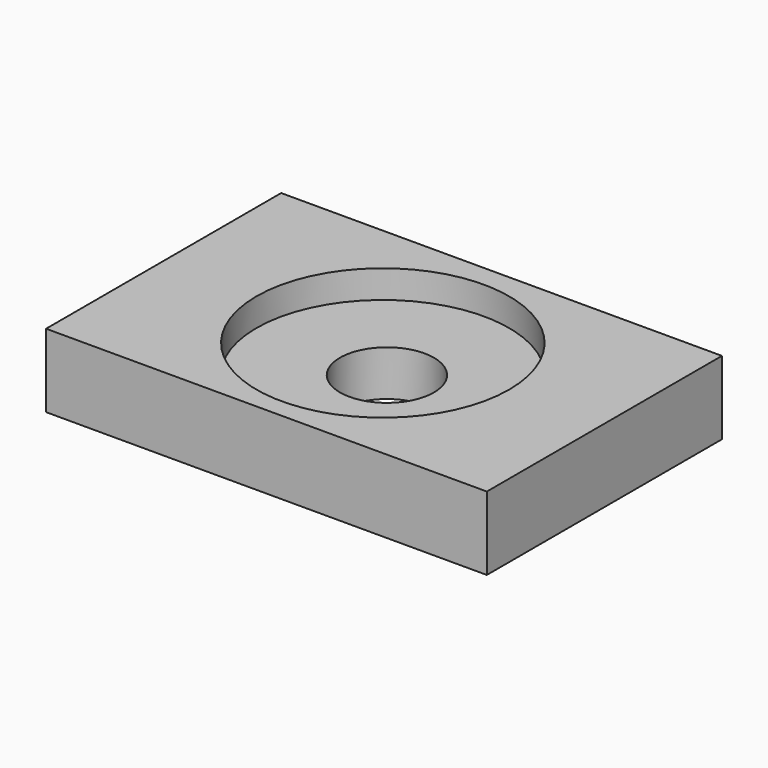
from build123d import *

# Parameters (mm, degrees)
CYLINDER001_R     = 1.6
CYLINDER001_DEPTH = 5
CYLINDER_R        = 4.3
CYLINDER_DEPTH    = 1.55
BOX_W             = 15
BOX_H             = 10
BOX_DEPTH         = 2.5


with BuildPart() as cylinder001:
    # Cylinder001 → Cylinder001 (new body)
    with BuildSketch(Plane(origin=(7.6, 5, -1), x_dir=(1, 0, 0), z_dir=(0, 0, 1))):
        Circle(CYLINDER001_R)
    extrude(amount=CYLINDER001_DEPTH)


with BuildPart() as fusion:
    # Cylinder → Cylinder (new body)
    with BuildSketch(Plane(origin=(7.5, 4.95, 1.55), x_dir=(1, 0, 0), z_dir=(0, 0, 1))):
        Circle(CYLINDER_R)
    extrude(amount=CYLINDER_DEPTH)

    # Fusion: union Cylinder001
    add(cylinder001.part)


with BuildPart() as cut:
    # Box → Box (new body)
    with BuildSketch(Plane.XY):
        with Locations((7.5, 5)):
            Rectangle(BOX_W, BOX_H)
    extrude(amount=BOX_DEPTH)

    # Cut: cut Fusion
    add(fusion.part, mode=Mode.SUBTRACT)


solid = cut.part
